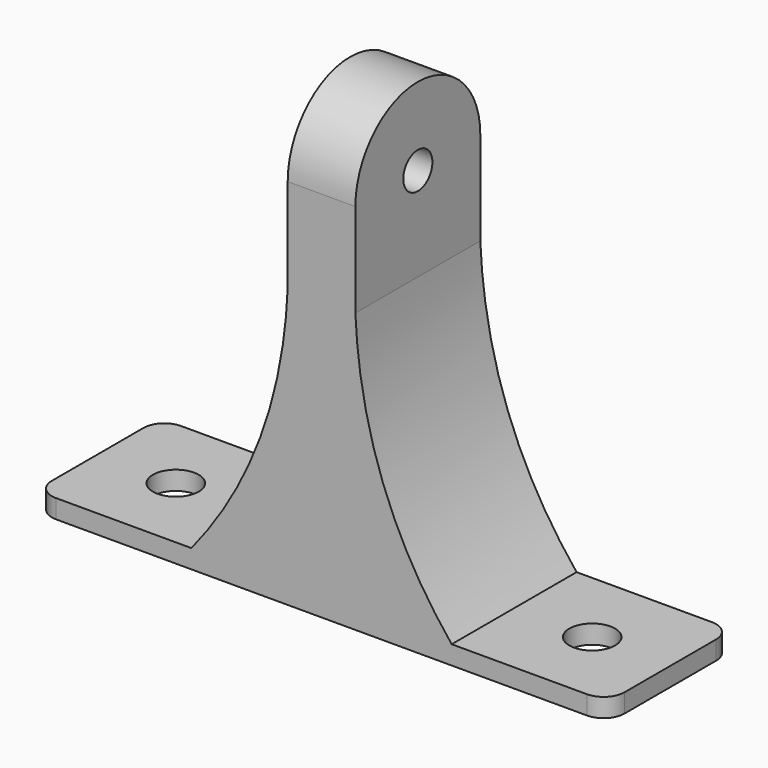
from build123d import *

# Parameters (mm, degrees)
SKETCH014_R  = 2.2
PAD010_DEPTH = 1.8
SKETCH016_W  = 25
SKETCH016_H  = 15
SKETCH025_W  = 18
SKETCH025_H  = 15
SKETCH017_W  = 6.5
SKETCH017_H  = 15
SKETCH018_R  = 1.75
PAD011_DEPTH = 3.25
SKETCH015_W  = 28
SKETCH015_H  = 6
PAD012_DEPTH = 2.5


with BuildPart() as part:
    # Sketch014 → Pad010 (new body)
    with BuildSketch(Plane.XY):
        with BuildLine():
            Line((-25.5, 7.5), (25.5, 7.5))
            ThreePointArc((27.5, 5.5), (26.914214, 6.914214), (25.5, 7.5))
            Line((27.5, 5.5), (27.5, -5.5))
            ThreePointArc((25.5, -7.5), (26.914214, -6.914214), (27.5, -5.5))
            Line((25.5, -7.5), (-25.5, -7.5))
            ThreePointArc((-27.5, -5.5), (-26.914214, -6.914214), (-25.5, -7.5))
            Line((-27.5, -5.5), (-27.5, 5.5))
            ThreePointArc((-25.5, 7.5), (-26.914214, 6.914214), (-27.5, 5.5))
        make_face()
        with Locations((-20, 0)):
            Circle(SKETCH014_R, mode=Mode.SUBTRACT)
        with Locations((20, 0)):
            Circle(SKETCH014_R, mode=Mode.SUBTRACT)
    extrude(amount=-PAD010_DEPTH)

    # Sketch016 → AdditiveLoft section 0
    with BuildSketch(Plane.XY):
        Rectangle(SKETCH016_W, SKETCH016_H)
    # Sketch025 → AdditiveLoft section 1
    with BuildSketch(Plane.XY.offset(5)):
        Rectangle(SKETCH025_W, SKETCH025_H)
    # Sketch017 → AdditiveLoft section 2
    with BuildSketch(Plane.XY.offset(25)):
        Rectangle(SKETCH017_W, SKETCH017_H)
    loft()

    # Sketch018 → Pad011 (join, symmetric)
    with BuildSketch(Plane(origin=(0, 0, 25), x_dir=(0, 1, 0), z_dir=(1, 0, 0))):
        with BuildLine():
            Line((7.5, 0), (-7.5, 0))
            Line((-7.5, 0), (-7.5, 9))
            ThreePointArc((7.5, 9), (0, 16.5), (-7.5, 9))
            Line((7.5, 9), (7.5, 0))
        make_face()
        with Locations((0, 9)):
            Circle(SKETCH018_R, mode=Mode.SUBTRACT)
    extrude(amount=PAD011_DEPTH, both=True)

    # Sketch015 → Pad012 (join)
    with BuildSketch(Plane(origin=(0, 0, -1.8), x_dir=(1, 0, 0), z_dir=(0, 0, -1))):
        Rectangle(SKETCH015_W, SKETCH015_H)
    extrude(amount=PAD012_DEPTH)


solid = part.part
